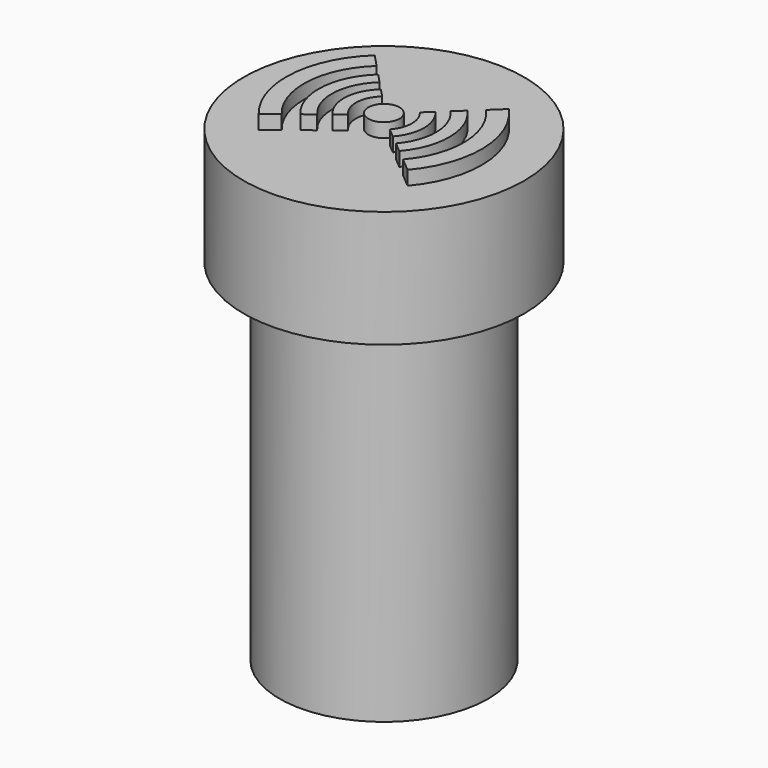
from build123d import *

# Parameters (mm, degrees)
F0_R     = 11.328224
F1_DEPTH = 50.8
F0_R_2   = 15.236447
F2_DEPTH = 12.7
F3_R     = 1.687605
F4_DEPTH = 1.524


with BuildPart() as f1:
    # F0 (on Top) → F1 (new body)
    with BuildSketch(Plane.XY):
        Circle(F0_R)
    extrude(amount=-F1_DEPTH)

    # F0 (on Top) → F2 (join)
    with BuildSketch(Plane.XY):
        Circle(F0_R_2)
        Circle(F0_R, mode=Mode.SUBTRACT)
    extrude(amount=-F2_DEPTH)

    # F3 (on Top) → F4 (join)
    with BuildSketch(Plane.XY):
        Circle(F3_R)
        with BuildLine():
            ThreePointArc((-2.193762, -2.115145), (-3.044929, 0.121791), (-2.017821, 2.2836))
            Line((-2.017821, 2.2836), (-2.92536, 3.240976))
            ThreePointArc((-2.92536, 3.240976), (-4.3603, 0.222363), (-3.239887, -2.926566))
            Line((-3.239887, -2.926566), (-2.193762, -2.115145))
        make_face()
        with BuildLine():
            ThreePointArc((-4.267654, -3.723748), (-5.65473, 0.321247), (-3.818462, 4.183123))
            Line((-3.818462, 4.183123), (-4.804929, 5.223764))
            ThreePointArc((-4.804929, 5.223764), (-7.084475, 0.430437), (-5.402019, -4.603612))
            Line((-5.402019, -4.603612), (-4.267654, -3.723748))
        make_face()
        with BuildLine():
            ThreePointArc((-6.64799, -5.570042), (-8.65553, 0.550403), (-5.888899, 6.367261))
            Line((-5.888899, 6.367261), (-7.230815, 7.782869))
            ThreePointArc((-7.230815, 7.782869), (-10.600437, 0.698907), (-8.19006, -6.76614))
            Line((-8.19006, -6.76614), (-6.64799, -5.570042))
        make_face()
        with BuildLine():
            Line((3.264468, 2.899122), (2.304564, 1.993843))
            ThreePointArc((2.304564, 1.993843), (3.047234, -0.028162), (2.26732, -2.036096))
            Line((2.26732, -2.036096), (3.279597, -2.881997))
            ThreePointArc((3.279597, -2.881997), (4.365951, 0.011425), (3.264468, 2.899122))
        make_face()
        with BuildLine():
            ThreePointArc((4.209008, 3.78991), (5.663624, 0.050381), (4.275763, -3.714434))
            Line((4.275763, -3.714434), (5.376066, -4.633893))
            ThreePointArc((5.376066, -4.633893), (7.096924, 0.093408), (5.252245, 4.77378))
            Line((5.252245, 4.77378), (4.209008, 3.78991))
        make_face()
        with BuildLine():
            ThreePointArc((6.398567, 5.854868), (8.671871, 0.140687), (6.585121, -5.644229))
            Line((6.585121, -5.644229), (8.081886, -6.894988))
            ThreePointArc((8.081886, -6.894988), (10.621584, 0.199216), (7.817651, 7.193196))
            Line((7.817651, 7.193196), (6.398567, 5.854868))
        make_face()
    extrude(amount=F4_DEPTH)


solid = f1.part
